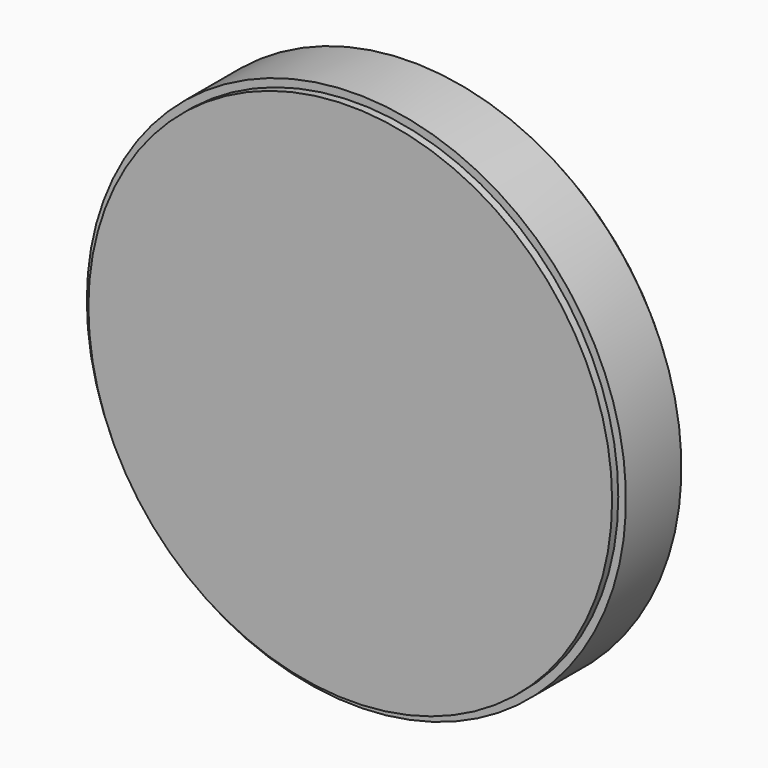
from build123d import *


with BuildPart() as part:
    # Sketch → Revolution (revolve)
    with BuildSketch(Plane.XY):
        with BuildLine():
            Line((-68, 22), (-68, 20))
            Line((-70, 20), (-68, 20))
            Line((-70, 20), (-70, 2))
            Line((-70, 2), (-68, 2))
            Line((-68, 2), (-68, 0))
            Line((-68, 0), (0, 0))
            Line((0, 0), (0, 22))
            Line((0, 22), (-15, 22))
            ThreePointArc((-25, 12), (-17.928932, 14.928932), (-15, 22))
            Line((-57.5, 8.5), (-25, 12))
            ThreePointArc((-57.5, 13.5), (-60, 11), (-57.5, 8.5))
            Line((-57.5, 22), (-57.5, 13.5))
            Line((-68, 22), (-57.5, 22))
        make_face()
    revolve(axis=Axis((0, 0, 0), (0, 1, 0)))


solid = part.part
